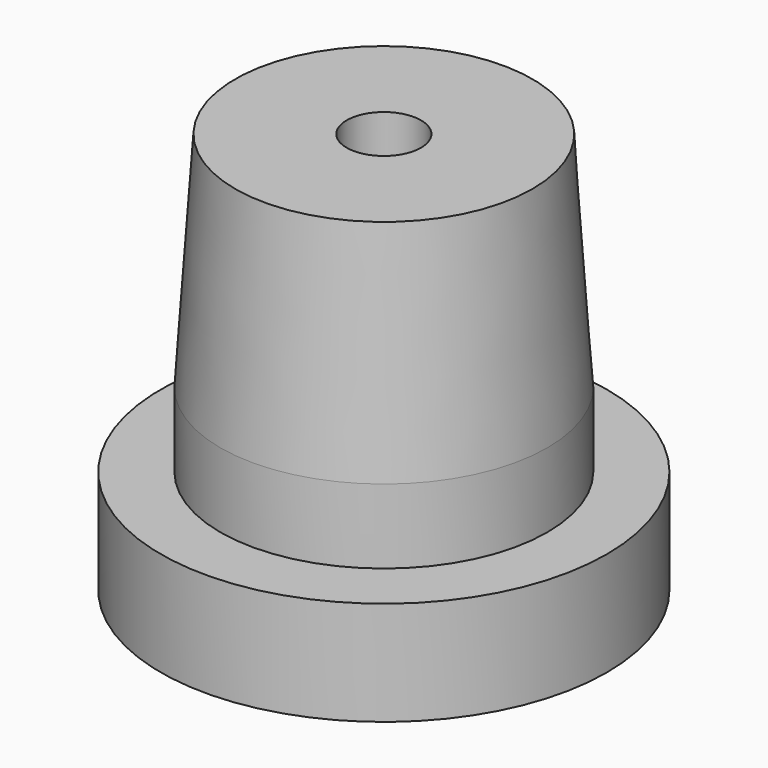
from build123d import *

# Parameters (mm, degrees)
F0_R     = 3
F0_R_2   = 0.5
F1_DEPTH = 1.4
F2_R     = 2.2
F2_R_2   = 0.5
F3_DEPTH = 4
F4_SIZE2 = 3
F4_SIZE  = 0.2


with BuildPart() as f1:
    # F0 (on Top) → F1 (new body)
    with BuildSketch(Plane.XY):
        Circle(F0_R)
        Circle(F0_R_2, mode=Mode.SUBTRACT)
    extrude(amount=F1_DEPTH)

    # F2 (on face) → F3 (join)
    with BuildSketch(Plane.XY.offset(1.4)):
        Circle(F2_R)
        Circle(F2_R_2, mode=Mode.SUBTRACT)
    extrude(amount=F3_DEPTH)

    # F4
    f4_edges = [f1.edges().sort_by_distance(p)[0] for p in [
        (-2.2, 0, 5.4),
    ]]
    f4_side = f1.faces().sort_by_distance((-2.137775, 0, 5.4))[0]
    chamfer(f4_edges, length=F4_SIZE, length2=F4_SIZE2, reference=f4_side)


solid = f1.part
